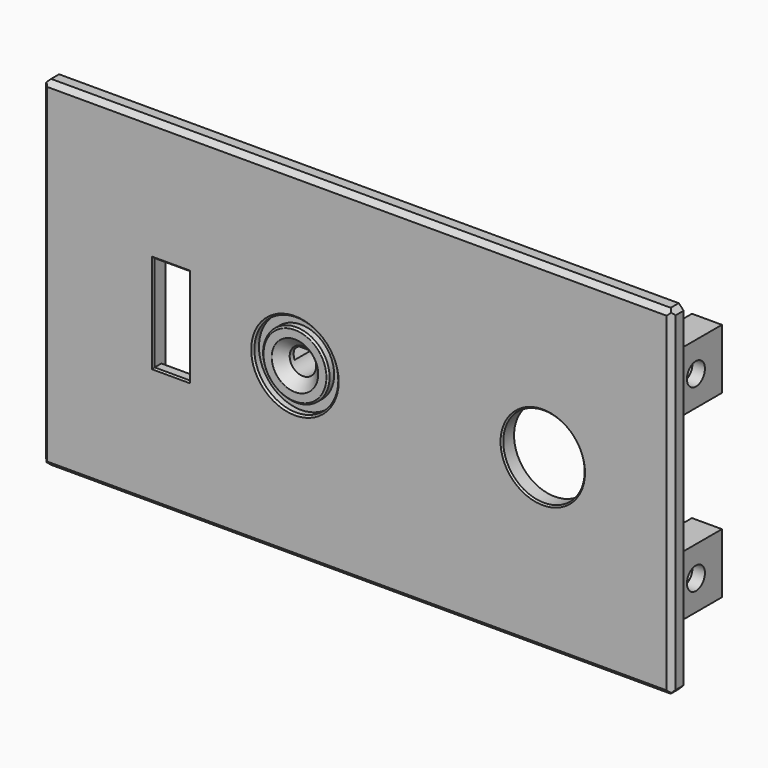
from build123d import *

# Parameters (mm, degrees)
SKETCH011_W     = 126
SKETCH011_H     = 68
PAD006_DEPTH    = 3
SKETCH012_W     = 6
SKETCH012_H     = 12
PAD007_DEPTH    = 13.5
SKETCH013_R     = 2.25
POCKET004_DEPTH = 122.851
POCKET005_DEPTH = 3.5
CHAMFER004_SIZE = 1
CHAMFER005_SIZE = 1
CHAMFER008_SIZE = 1
SKETCH024_R     = 2.65
SKETCH024_R_2   = 8.15
SKETCH024_W     = 7.05
SKETCH024_H     = 19.25
POCKET012_DEPTH = 16.501
POCKET013_DEPTH = 1
CHAMFER010_SIZE = 2
SKETCH026_R     = 8.4
SKETCH026_R_2   = 6.65
POCKET014_DEPTH = 1.5
CHAMFER011_SIZE = 0.35
CHAMFER012_SIZE = 0.3
SKETCH030_R     = 5.15
SKETCH030_R_2   = 2.65
PAD012_DEPTH    = 4
SKETCH031_W     = 10.3
SKETCH031_H     = 2
POCKET016_DEPTH = 4
PAD016_DEPTH    = 4
FILLET004_R     = 0.1


with BuildPart() as part:
    # Sketch011 → Pad006 (new body)
    with BuildSketch(Plane.XZ):
        with Locations((0, 34)):
            Rectangle(SKETCH011_W, SKETCH011_H)
    extrude(amount=PAD006_DEPTH)

    # Sketch012 (on Face5 of Pad006) → Pad007 (join)
    with BuildSketch(Plane(origin=(0, 0, 0), x_dir=(1, 0, 0), z_dir=(0, 1, 0))):
        with Locations((-56.85, -16)):
            Rectangle(SKETCH012_W, SKETCH012_H)
        with Locations((-56.85, -52)):
            Rectangle(SKETCH012_W, SKETCH012_H)
    pad007 = extrude(amount=PAD007_DEPTH)

    # Mirrored002: Pad007 across YZ
    add(pad007.mirror(Plane.YZ))

    # Sketch013 (on Face22 of Mirrored002) → Pocket004 (cut, through all)
    with BuildSketch(Plane(origin=(59.85, 0, 0), x_dir=(0, 0, 1), z_dir=(1, 0, 0))):
        with Locations((16, -7)):
            Circle(SKETCH013_R)
        with Locations((52, -7)):
            Circle(SKETCH013_R)
    extrude(amount=-POCKET004_DEPTH, mode=Mode.SUBTRACT)

    # Sketch014 (on Face10 of Pocket004) → Pocket005 (cut)
    with BuildSketch(Plane(origin=(-53.85, 0, 0), x_dir=(0, 0, 1), z_dir=(1, 0, 0))):
        Polygon((19.5, -9.020726), (19.5, -4.979274), (16, -2.958548), (12.5, -4.979274), (12.5, -9.020726), (16, -11.041452), align=None)
        Polygon((55.5, -9.020726), (55.5, -4.979274), (52, -2.958548), (48.5, -4.979274), (48.5, -9.020726), (52, -11.041452), align=None)
    pocket005 = extrude(amount=-POCKET005_DEPTH, mode=Mode.SUBTRACT)

    # Chamfer004
    chamfer004_edges = [part.edges().sort_by_distance(p)[0] for p in [
        (0, -3, 68),
        (63, -3, 34),
        (0, -3, 0),
        (-63, -3, 34),
    ]]
    chamfer(chamfer004_edges, length=CHAMFER004_SIZE)

    # Chamfer005
    chamfer005_edges = [part.edges().sort_by_distance(p)[0] for p in [
        (-63, -1, 68),
        (63, -1, 68),
    ]]
    chamfer(chamfer005_edges, length=CHAMFER005_SIZE)

    # Chamfer008
    chamfer008_edges = [part.edges().sort_by_distance(p)[0] for p in [
        (63, -1, 0),
        (-63, -1, 0),
    ]]
    chamfer(chamfer008_edges, length=CHAMFER008_SIZE)

    # Mirrored005: Pocket005 across YZ
    add(pocket005.mirror(Plane.YZ), mode=Mode.SUBTRACT)

    # Sketch024 (on Face62 of Mirrored005) → Pocket012 (cut, through all)
    with BuildSketch(Plane.XZ.offset(3)):
        with Locations((-12.4, 34)):
            Circle(SKETCH024_R)
        with Locations((37.2, 34)):
            Circle(SKETCH024_R_2)
        with Locations((-37.2, 34)):
            Rectangle(SKETCH024_W, SKETCH024_H)
    extrude(amount=-POCKET012_DEPTH, mode=Mode.SUBTRACT)

    # Sketch025 (on Face1 of Pocket012) → Pocket013 (cut)
    with BuildSketch(Plane(origin=(0, 0, 0), x_dir=(1, 0, 0), z_dir=(0, 1, 0))):
        Polygon((-40.725, -20.375), (-33.675, -20.375), (-33.675, -43.625), (-33.675, -47.625), (-40.725, -47.625), (-40.725, -24.375), align=None)
    extrude(amount=-POCKET013_DEPTH, mode=Mode.SUBTRACT)

    # Chamfer010
    chamfer010_edges = [part.edges().sort_by_distance(p)[0] for p in [
        (-15.05, -3, 34),
    ]]
    chamfer(chamfer010_edges, length=CHAMFER010_SIZE)

    # Sketch026 (on Face4 of Chamfer010) → Pocket014 (cut)
    with BuildSketch(Plane.XZ.offset(3)):
        with Locations((-12.4, 34)):
            Circle(SKETCH026_R)
        with Locations((-12.4, 34)):
            Circle(SKETCH026_R_2, mode=Mode.SUBTRACT)
    extrude(amount=-POCKET014_DEPTH, mode=Mode.SUBTRACT)

    # Chamfer011
    chamfer011_edges = [part.edges().sort_by_distance(p)[0] for p in [
        (-19.05, -3, 34),
        (-20.8, -3, 34),
    ]]
    chamfer(chamfer011_edges, length=CHAMFER011_SIZE)

    # Chamfer012
    chamfer012_edges = [part.edges().sort_by_distance(p)[0] for p in [
        (-37.2, -3, 24.375),
        (-40.725, -3, 34),
        (-33.675, -3, 34),
        (-37.2, -3, 43.625),
        (29.05, -3, 34),
    ]]
    chamfer(chamfer012_edges, length=CHAMFER012_SIZE)

    # Sketch030 (on Face3 of Chamfer012) → Pad012 (join)
    with BuildSketch(Plane(origin=(0, 0, 0), x_dir=(1, 0, 0), z_dir=(0, 1, 0))):
        with Locations((-12.4, -34)):
            Circle(SKETCH030_R)
        with Locations((-12.4, -34)):
            Circle(SKETCH030_R_2, mode=Mode.SUBTRACT)
    extrude(amount=PAD012_DEPTH)

    # Sketch031 (on Face83 of Pad012) → Pocket016 (cut)
    with BuildSketch(Plane(origin=(0, 4, 0), x_dir=(1, 0, 0), z_dir=(0, 1, 0))):
        with Locations((-12.4, -34)):
            Rectangle(SKETCH031_W, SKETCH031_H)
    extrude(amount=-POCKET016_DEPTH, mode=Mode.SUBTRACT)

    # Sketch035 (on Face3 of Pocket016) → Pad016 (join)
    with BuildSketch(Plane(origin=(0, 0, 0), x_dir=(1, 0, 0), z_dir=(0, 1, 0))):
        with BuildLine():
            ThreePointArc((-40, -53.5), (-41.5, -55), (-40, -56.5))
            Line((-40, -56.5), (40, -56.5))
            ThreePointArc((40, -56.5), (41.5, -55), (40, -53.5))
            Line((-40, -53.5), (40, -53.5))
        make_face()
        with BuildLine():
            ThreePointArc((-40, -10.5), (-41.5, -12), (-40, -13.5))
            Line((-40, -13.5), (40, -13.5))
            ThreePointArc((40, -13.5), (41.5, -12), (40, -10.5))
            Line((-40, -10.5), (40, -10.5))
        make_face()
    extrude(amount=PAD016_DEPTH)

    # Fillet004
    fillet004_edges = [part.edges().sort_by_distance(p)[0] for p in [
        (-18.7, -3, 34),
        (-17.05, -3, 34),
    ]]
    fillet(fillet004_edges, radius=FILLET004_R)


with BuildPart() as part_1:
    # Body004 placement: moved
    add(part.part.moved(Location((0, -66.95, 0))))


solid = part_1.part
